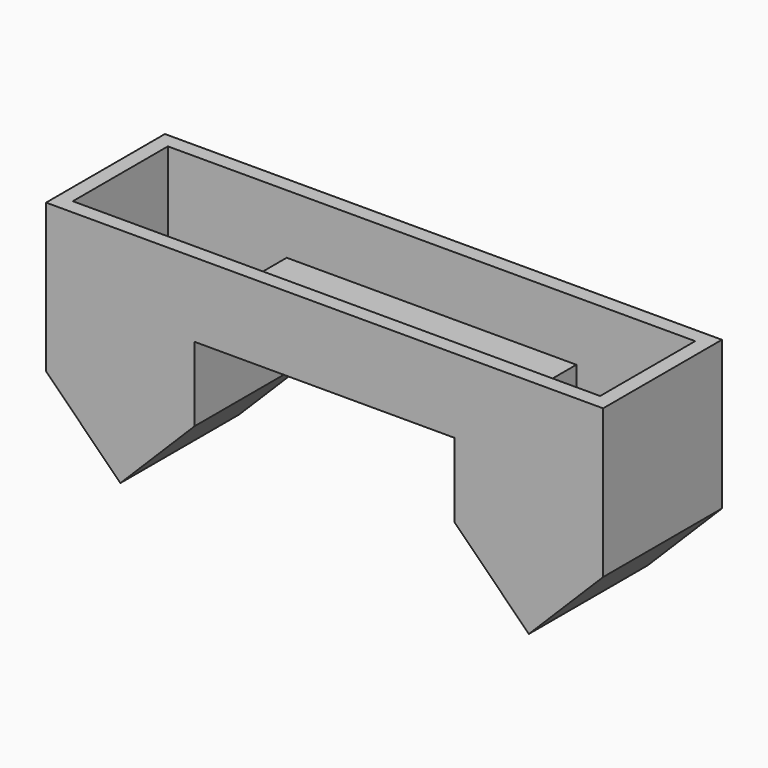
from build123d import *

# Parameters (mm, degrees)
F1_DEPTH = 25.4
F2_T     = -2.54


with BuildPart() as f1:
    # F0 (on Front) → F1 (new body)
    with BuildSketch(Plane.XZ):
        Polygon((2.8720393181, 48.1509345859), (-44.7529606819, 48.1509345859), (-44.7529606819, 35.4509345859), (-22.5279606819, 35.4509345859), (-22.5279606819, 22.7509345859), (-9.8279606819, 10.0509345859), (2.8720393181, 22.7509345859), align=None)
        Polygon((-44.7529606819, 35.4509345859), (-44.7529606819, 48.1509345859), (-92.3779606819, 48.1509345859), (-92.3779606819, 22.7509345859), (-79.6779606819, 10.0509345859), (-66.9779606819, 22.7509345859), (-66.9779606819, 35.4509345859), align=None)
    extrude(amount=F1_DEPTH)

    # F2
    f2_openings = [f1.faces().sort_by_distance(p)[0] for p in [
        (-44.752961, -12.7, 48.150935),
    ]]
    offset(amount=F2_T, openings=f2_openings, kind=Kind.INTERSECTION)


solid = f1.part
